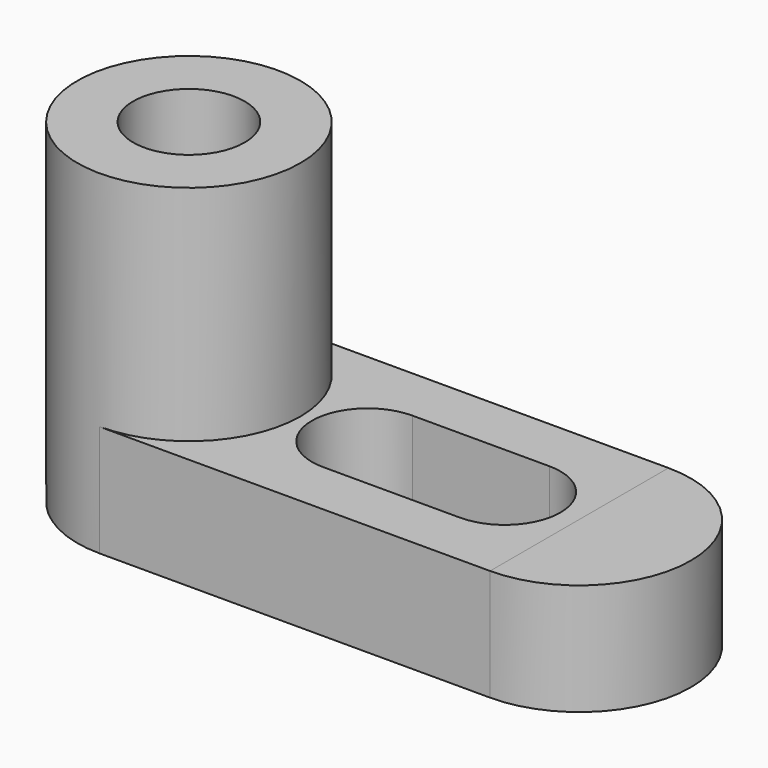
from build123d import *

# Parameters (mm, degrees)
F0_W     = 57.15
F0_H     = 12.7
F1_DEPTH = 25.4
F2_R     = 12.7
F2_R_2   = 6.35
F3_DEPTH = 25.4
F4_DEPTH = 25.4
F5_DEPTH = 25.4
F7_DEPTH = 12.7
F9_DEPTH = 25.4


with BuildPart() as f1:
    # F0 (on Front) → F1 (new body)
    with BuildSketch(Plane.XZ):
        with Locations((28.575, 6.35)):
            Rectangle(F0_W, F0_H)
    extrude(amount=F1_DEPTH)

    # F2 (on face) → F3 (join)
    with BuildSketch(Plane.XY.offset(12.7)):
        with Locations((12.7, -12.7)):
            Circle(F2_R)
        with Locations((12.7, -12.7)):
            Circle(F2_R_2, mode=Mode.SUBTRACT)
    extrude(amount=F3_DEPTH)

    # F4 (cut): faces of the model
    f4_faces = [f1.faces().sort_by_distance(p)[0] for p in [
        (2.8367728246, -22.5632271754, 12.7),
        (2.8367728246, -2.8367728246, 12.7),
    ]]
    extrude(f4_faces, amount=-F4_DEPTH, mode=Mode.SUBTRACT)

    # F5 (cut): a face of the model
    f5_faces = [f1.faces().sort_by_distance(p)[0] for p in [
        (12.7, -12.7, 12.7),
    ]]
    extrude(f5_faces, amount=-F5_DEPTH, mode=Mode.SUBTRACT)

    # F8 (on face) → F9 (cut)
    with BuildSketch(Plane.XY.offset(12.7)):
        with BuildLine():
            ThreePointArc((33.0537781119, -19.05), (37.5439061725, -17.1901280605), (39.4037781119, -12.7))
            ThreePointArc((39.4037781119, -12.7), (37.5439061725, -8.2098719395), (33.0537781119, -6.35))
            ThreePointArc((33.0537781119, -6.35), (26.7037781119, -12.7), (33.0537781119, -19.05))
        make_face()
        with BuildLine():
            ThreePointArc((33.0537781119, -6.35), (37.5439061725, -8.2098719395), (39.4037781119, -12.7))
            ThreePointArc((39.4037781119, -12.7), (37.5439061725, -17.1901280605), (33.0537781119, -19.05))
            Line((33.0537781119, -19.05), (48.6585646868, -19.05))
            ThreePointArc((48.6585646868, -19.05), (42.3085646868, -12.7), (48.6585646868, -6.35))
            Line((48.6585646868, -6.35), (33.0537781119, -6.35))
        make_face()
        with BuildLine():
            ThreePointArc((55.0085646868, -12.7), (53.1486927473, -8.2098719395), (48.6585646868, -6.35))
            ThreePointArc((48.6585646868, -6.35), (42.3085646868, -12.7), (48.6585646868, -19.05))
            ThreePointArc((48.6585646868, -19.05), (53.1486927473, -17.1901280605), (55.0085646868, -12.7))
        make_face()
    extrude(amount=-F9_DEPTH, mode=Mode.SUBTRACT)


with BuildPart() as f7:
    # F6 (on face) → F7 (new body)
    with BuildSketch(Plane.XY.offset(12.7)):
        with BuildLine():
            Line((57.15, 0), (57.15, -25.4))
            ThreePointArc((57.15, -25.4), (69.85, -12.7), (57.15, 0))
        make_face()
    extrude(amount=-F7_DEPTH)


solid = Compound([f1.part, f7.part])
